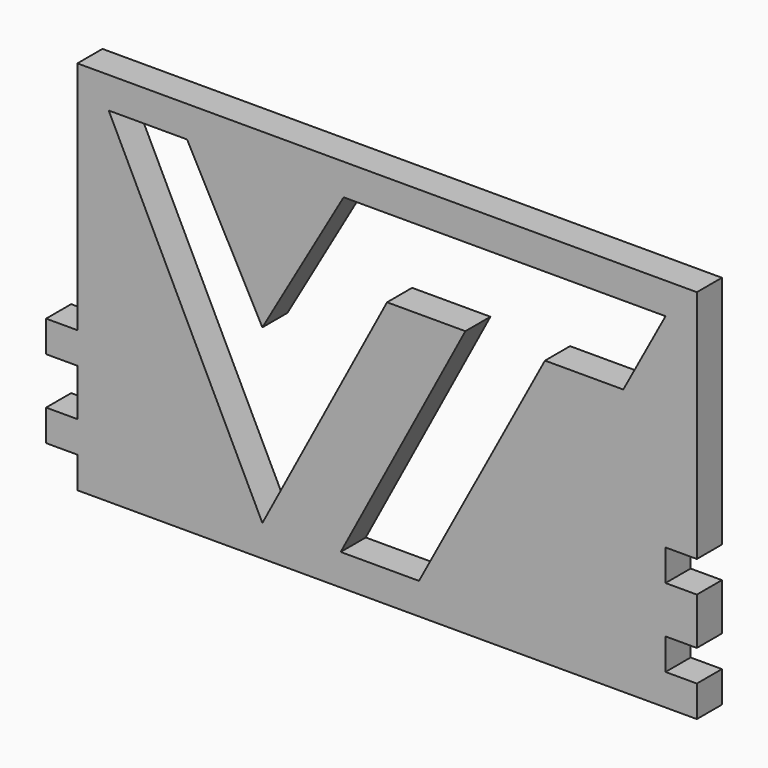
from build123d import *

# Parameters (mm, degrees)
F1_W     = 50.238024
F1_H     = 30.48
F2_DEPTH = 2.54
F3_DEPTH = 2.54
F4_W     = 2.54
F4_H     = 2.54
F5_DEPTH = 2.54
F6_W     = 2.54
F6_H     = 2.54
F7_DEPTH = 2.54


with BuildPart() as f2:
    # F1 (on Front) → F2 (new body)
    with BuildSketch(Plane.XZ):
        with Locations((7.288118, 12.7)):
            Rectangle(F1_W, F1_H)
    extrude(amount=-F2_DEPTH)

    # F0 (on Front) → F3 (cut, through all)
    with BuildSketch(Plane.XZ):
        Polygon((-8.940894, 25.4), (-15.290894, 25.4), (-2.829347, 0), (7.282625, 19.05), (13.632625, 19.05), (3.520653, 0), (9.870653, 0), (20.089414, 19.05), (26.439414, 19.05), (29.86713, 25.4), (3.759106, 25.4), (-2.829347, 13.97), align=None)
    extrude(amount=-F3_DEPTH, mode=Mode.SUBTRACT)

    # F4 (on face) → F5 (cut, through all)
    with BuildSketch(Plane.XZ):
        with Locations((31.13713, 7.62)):
            Rectangle(F4_W, F4_H)
        with Locations((31.13713, 1.27)):
            Rectangle(F4_W, F4_H)
    extrude(amount=-F5_DEPTH, mode=Mode.SUBTRACT)

    # F6 (on face) → F7 (join)
    with BuildSketch(Plane(origin=(-17.830894, 0, 0), x_dir=(0, -1, 0), z_dir=(-1, 0, 0))):
        with Locations((-1.27, 7.62)):
            Rectangle(F6_W, F6_H)
        with Locations((-1.27, 1.27)):
            Rectangle(F6_W, F6_H)
    extrude(amount=F7_DEPTH)


solid = f2.part
